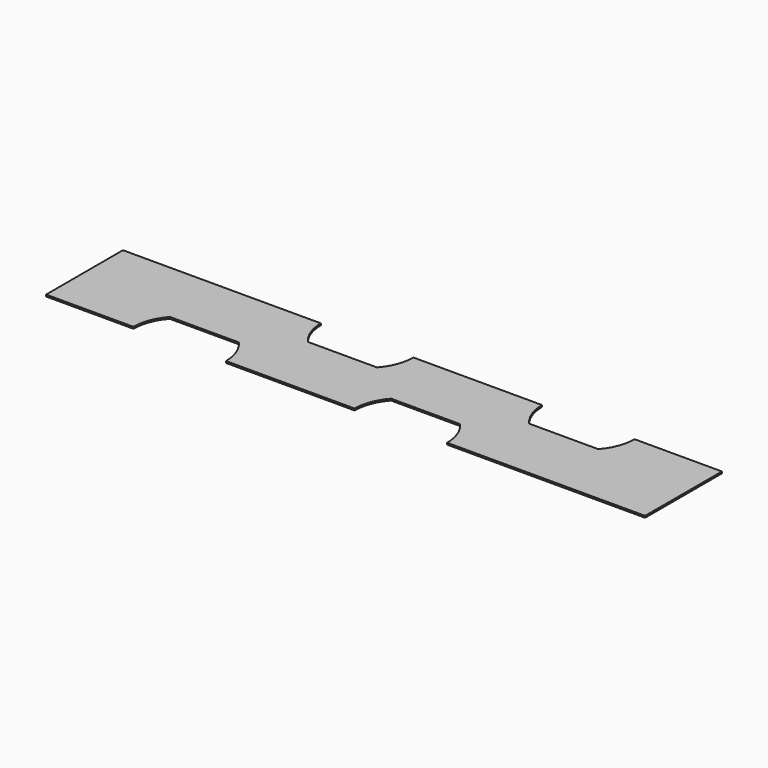
from build123d import *

# Parameters (mm, degrees)
F1_DEPTH = 0.3


with BuildPart() as f1:
    # F0 (on Top) → F1 (new body)
    with BuildSketch(Plane.XY):
        with BuildLine():
            ThreePointArc((66.87558, -2.95), (68.37667, -5.413264), (68.9, -8.25))
            Line((68.9, -8.25), (102.9, -8.25))
            Line((102.9, -8.25), (102.9, 8.25))
            Line((102.9, 8.25), (87.9, 8.25))
            ThreePointArc((87.9, 8.25), (87.37667, 5.413264), (85.87558, 2.95))
            ThreePointArc((85.87558, 2.95), (79.95, 0.3), (74.02442, 2.95))
            ThreePointArc((74.02442, 2.95), (72.52333, 5.413264), (72, 8.25))
            Line((72, 8.25), (49.9, 8.25))
            ThreePointArc((49.9, 8.25), (49.37667, 5.413264), (47.87558, 2.95))
            ThreePointArc((47.87558, 2.95), (41.95, 0.3), (36.02442, 2.95))
            ThreePointArc((36.02442, 2.95), (34.52333, 5.413264), (34, 8.25))
            Line((34, 8.25), (0, 8.25))
            Line((0, 8.25), (0, -8.25))
            Line((0, -8.25), (15, -8.25))
            ThreePointArc((15, -8.25), (15.52333, -5.413264), (17.02442, -2.95))
            ThreePointArc((17.02442, -2.95), (22.95, -0.3), (28.87558, -2.95))
            ThreePointArc((28.87558, -2.95), (30.37667, -5.413264), (30.9, -8.25))
            Line((30.9, -8.25), (53, -8.25))
            ThreePointArc((53, -8.25), (53.52333, -5.413264), (55.02442, -2.95))
            ThreePointArc((55.02442, -2.95), (60.95, -0.3), (66.87558, -2.95))
        make_face()
        with BuildLine():
            Line((17.02442, -2.95), (28.87558, -2.95))
            ThreePointArc((28.87558, -2.95), (22.95, -0.3), (17.02442, -2.95))
        make_face()
        with BuildLine():
            ThreePointArc((36.02442, 2.95), (41.95, 0.3), (47.87558, 2.95))
            Line((47.87558, 2.95), (36.02442, 2.95))
        make_face()
        with BuildLine():
            Line((55.02442, -2.95), (66.87558, -2.95))
            ThreePointArc((66.87558, -2.95), (60.95, -0.3), (55.02442, -2.95))
        make_face()
        with BuildLine():
            ThreePointArc((74.02442, 2.95), (79.95, 0.3), (85.87558, 2.95))
            Line((85.87558, 2.95), (74.02442, 2.95))
        make_face()
    extrude(amount=F1_DEPTH)


solid = f1.part
